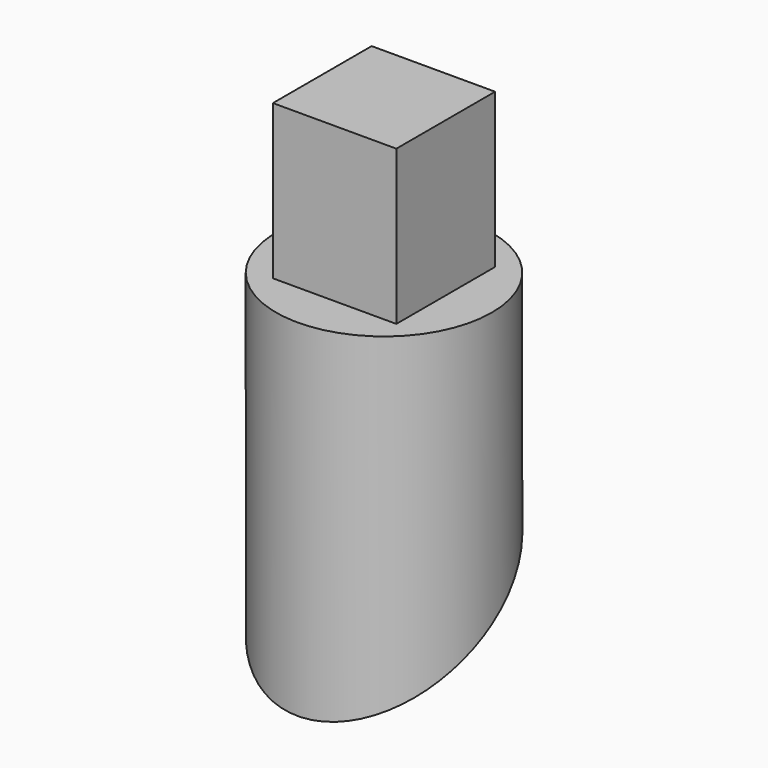
from build123d import *

# Parameters (mm, degrees)
F0_R     = 17.5
F1_DEPTH = 50
F2_W     = 20
F2_H     = 20
F3_DEPTH = 25
F5_DEPTH = 25


with BuildPart() as f1:
    # F0 (on Top) → F1 (new body, symmetric)
    with BuildSketch(Plane.XY):
        Circle(F0_R)
    extrude(amount=F1_DEPTH, both=True)

    # F2 (on face) → F3 (join)
    with BuildSketch(Plane.XY.offset(50)):
        Rectangle(F2_W, F2_H)
    extrude(amount=F3_DEPTH)

    # F4 (on Right) → F5 (cut, symmetric)
    with BuildSketch(Plane.YZ):
        Polygon((41.704226, -61.003525), (28.838029, 24.845071), (-43.478873, -23.514086), (-43.478873, -61.003525), align=None)
    extrude(amount=F5_DEPTH, both=True, mode=Mode.SUBTRACT)


solid = f1.part
